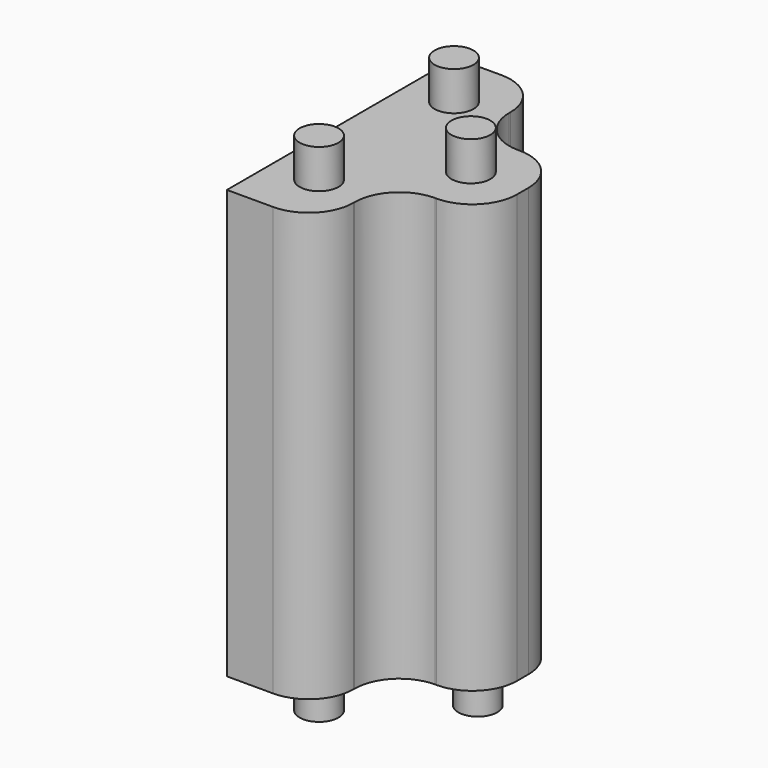
from build123d import *

# Parameters (mm, degrees)
PAD010_DEPTH = 16.5
SKETCH017_R  = 0.75
PAD012_DEPTH = 1.5
SKETCH019_R  = 0.75
PAD013_DEPTH = 1.5
FILLET010_R  = 1.72


with BuildPart() as part:
    # Sketch016 → Pad010 (new body)
    with BuildSketch(Plane.XY):
        Polygon((-53.501251, -22.682802), (-50.001251, -22.682802), (-50.001251, -26.182802), (-46.501251, -26.182802), (-46.501251, -30.182802), (-50.001251, -30.182802), (-50.001251, -33.682802), (-53.501251, -33.682802), align=None)
    extrude(amount=PAD010_DEPTH)

    # Sketch017 (on Face10 of Pad010) → Pad012 (join)
    with BuildSketch(Plane.XY.offset(16.5)):
        with Locations((-51.751251, -24.932802)):
            Circle(SKETCH017_R)
        with Locations((-51.751251, -31.432802)):
            Circle(SKETCH017_R)
        with Locations((-48.501251, -28.182802)):
            Circle(SKETCH017_R)
    extrude(amount=PAD012_DEPTH)

    # Sketch019 → Pad013 (join)
    with BuildSketch(Plane(origin=(0, 0, 0), x_dir=(1, 0, 0), z_dir=(0, 0, -1))):
        with Locations((-51.751251, 31.432802)):
            Circle(SKETCH019_R)
        with Locations((-51.751251, 24.932802)):
            Circle(SKETCH019_R)
        with Locations((-48.236244, 28.182802)):
            Circle(SKETCH019_R)
    extrude(amount=PAD013_DEPTH)

    # Fillet010
    fillet010_edges = [part.edges().sort_by_distance(p)[0] for p in [
        (-50.001251, -30.182802, 8.25),
        (-50.001251, -33.682802, 8.25),
        (-46.501251, -30.182802, 8.25),
        (-46.501251, -26.182802, 8.25),
        (-50.001251, -22.682802, 8.25),
        (-50.001251, -26.182802, 8.25),
    ]]
    fillet(fillet010_edges, radius=FILLET010_R)


with BuildPart() as part_1:
    # Body003 placement: moved
    add(part.part.moved(Location((-1.4, 15.2, 11.1))))


solid = part_1.part
